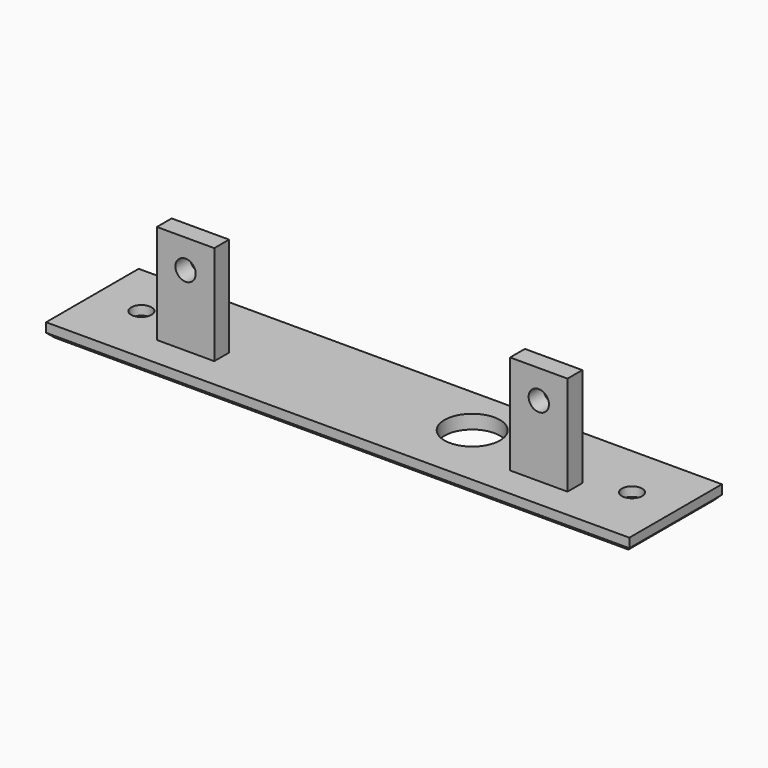
from build123d import *

# Parameters (mm, degrees)
SKETCH_W        = 126
SKETCH_H        = 25
SKETCH_R        = 2.2
PAD_DEPTH       = 3
SKETCH001_W     = 12.4
SKETCH001_H     = 4
PAD001_DEPTH    = 21.497
SKETCH002_R     = 2.2
POCKET_DEPTH    = 4
CHAMFER_SIZE    = 1
SKETCH003_R     = 6
POCKET001_DEPTH = 24.498


with BuildPart() as part:
    # Sketch → Pad (new body)
    with BuildSketch(Plane.XY):
        Rectangle(SKETCH_W, SKETCH_H)
        with Locations((-53, 0.726)):
            Circle(SKETCH_R, mode=Mode.SUBTRACT)
        with Locations((53, 0.726)):
            Circle(SKETCH_R, mode=Mode.SUBTRACT)
    extrude(amount=PAD_DEPTH)

    # Sketch001 (on Face8 of Pad) → Pad001 (join)
    with BuildSketch(Plane.XY.offset(3)):
        with Locations((-38.154, -3.892)):
            Rectangle(SKETCH001_W, SKETCH001_H)
        with Locations((38.154, -3.892)):
            Rectangle(SKETCH001_W, SKETCH001_H)
    extrude(amount=PAD001_DEPTH)

    # Sketch002 (on Face11 of Pad001) → Pocket (cut)
    with BuildSketch(Plane.XZ.offset(5.892)):
        with Locations((-38.154, 18.297)):
            Circle(SKETCH002_R)
    pocket = extrude(amount=-POCKET_DEPTH, mode=Mode.SUBTRACT)

    # Mirrored: Pocket across Sketch002 V_Axis
    add(pocket.mirror(Plane(origin=(0, -5.892, 0), x_dir=(0, -1, 0), z_dir=(1, 0, 0))), mode=Mode.SUBTRACT)

    # Chamfer
    chamfer_edges = [part.edges().sort_by_distance(p)[0] for p in [
        (0, 12.5, 0),
        (63, 0, 0),
        (0, -12.5, 0),
        (-63, 0, 0),
        (50.8, 0.726, 0),
        (-55.2, 0.726, 0),
    ]]
    chamfer(chamfer_edges, length=CHAMFER_SIZE)

    # Sketch003 (on Face8 of Chamfer) → Pocket001 (cut, through all)
    with BuildSketch(Plane(origin=(0, 0, 0), x_dir=(1, 0, 0), z_dir=(0, 0, -1))):
        with Locations((17.775, -1.608)):
            Circle(SKETCH003_R)
    extrude(amount=-POCKET001_DEPTH, mode=Mode.SUBTRACT)


solid = part.part
